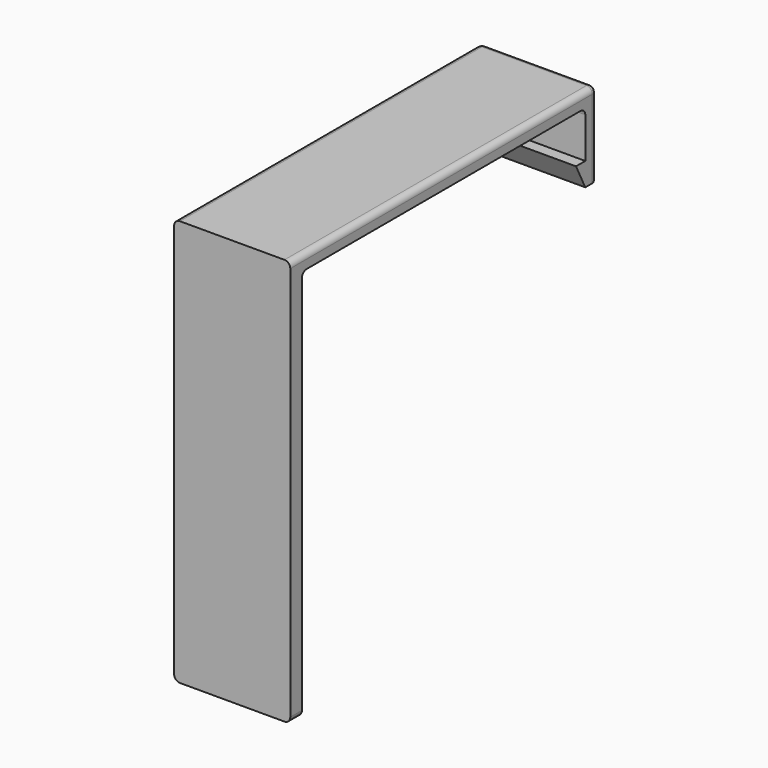
from build123d import *

# Parameters (mm, degrees)
F1_DEPTH = 25.4
F2_R     = 1.27
F3_R     = 1.27


with BuildPart() as f1:
    # F0 (on Right) → F1 (new body)
    with BuildSketch(Plane.YZ):
        Polygon((0, -35.935552), (0, 49.789448), (77.47, 49.789448), (77.47, 39.629448), (77.47, 34.549448), (80.645, 34.549448), (80.645, 49.789448), (80.645, 52.964448), (77.47, 52.964448), (0, 52.964448), (-3.175, 52.964448), (-3.175, 49.789448), (-3.175, 11.689448), (-3.175, -35.935552), align=None)
        Polygon((77.47, 34.549448), (77.47, 39.629448), (74.93, 39.629448), align=None)
    extrude(amount=F1_DEPTH)

    # F2
    f2_edges = [f1.edges().sort_by_distance(p)[0] for p in [
        (25.4, 38.735, 52.964448),
        (0, 38.735, 52.964448),
        (12.7, 80.645, 52.964448),
        (25.4, 80.645, 43.756948),
        (12.7, 80.645, 34.549448),
        (0, 80.645, 43.756948),
        (25.4, -1.5875, -35.935552),
        (0, -1.5875, -35.935552),
    ]]
    fillet(f2_edges, radius=F2_R)

    # F3
    f3_edges = [f1.edges().sort_by_distance(p)[0] for p in [
        (12.7, 0, 49.789448),
        (12.7, 77.47, 49.789448),
    ]]
    fillet(f3_edges, radius=F3_R)


solid = f1.part
